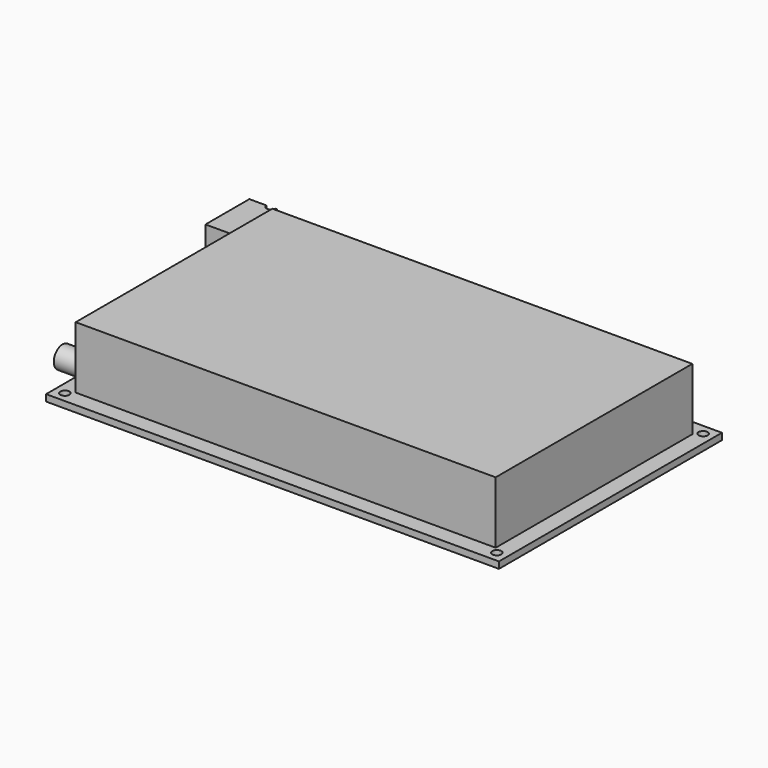
from build123d import *

# Parameters (mm, degrees)
F0_W          = 153.1
F0_H          = 89.6
F1_DEPTH      = 2.4
F2_DEPTH      = 25
F3_W          = 20
F3_H          = 20
F3_R          = 4
F4_DEPTH      = 6
F4_DEPTH_BACK = 4
F5_D          = 3.3


with BuildPart() as f1:
    # F0 (on Top) → F1 (new body)
    with BuildSketch(Plane.XY):
        Polygon((165.1, 0), (0, 0), (0, -7.62), (0, -20.32), (0, -86.995), (0, -91.186), (0, -101.6), (165.1, -101.6), align=None)
        with Locations((82.55, -50.8)):
            Rectangle(F0_W, F0_H, mode=Mode.SUBTRACT)
    extrude(amount=F1_DEPTH)

    # F0 (on Top) → F2 (join)
    with BuildSketch(Plane.XY):
        with Locations((82.55, -50.8)):
            Rectangle(F0_W, F0_H)
    extrude(amount=F2_DEPTH)

    # F3 (on face) → F4 (join, two sides)
    with BuildSketch(Plane(origin=(0, 0, 0), x_dir=(0, -1, 0), z_dir=(-1, 0, 0))) as f4_sk:
        with Locations((13.97, 14)):
            Rectangle(F3_W, F3_H)
        with Locations((89.0905, 8)):
            Circle(F3_R)
    extrude(amount=-F4_DEPTH)
    extrude(f4_sk.sketch, amount=F4_DEPTH_BACK)

    # F5 (through all)
    with Locations(Plane(origin=(0, 0, 0), x_dir=(1, 0, 0), z_dir=(0, 0, -1))):
        with Locations((3.81, 3.81), (3.81, 97.79), (161.29, 97.79), (161.29, 3.81)):
            Hole(F5_D / 2)


solid = f1.part
